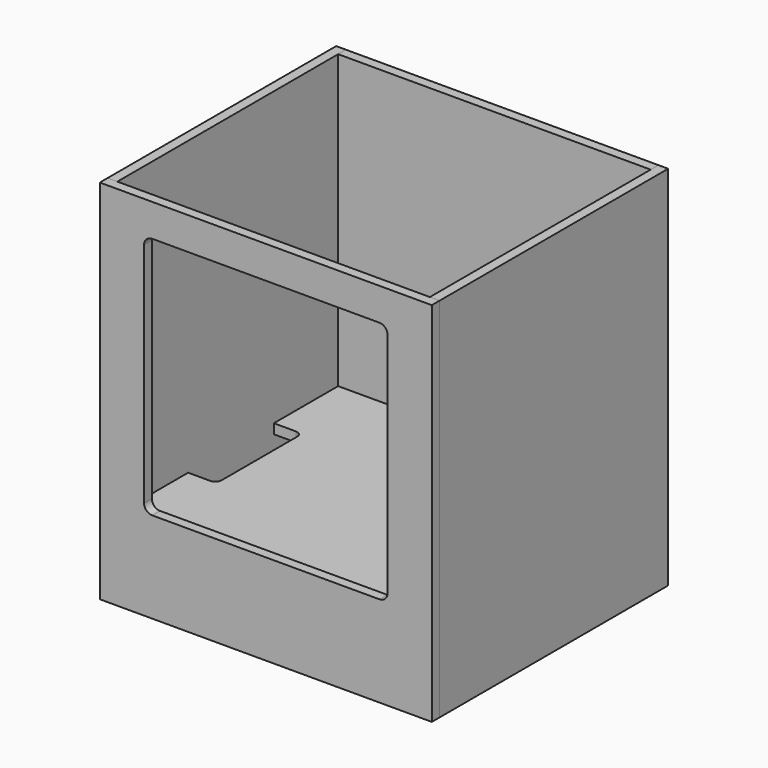
from build123d import *

# Parameters (mm, degrees)
F0_W     = 409
F0_H     = 452
F1_DEPTH = 12
F2_W     = 12
F2_H     = 452
F3_DEPTH = 352
F4_W     = 12
F4_H     = 452
F5_DEPTH = 385
F6_W     = 385
F6_H     = 12
F7_DEPTH = 340
F9_DEPTH = 92.001


with BuildPart() as f1:
    # F0 (on Front) → F1 (new body)
    with BuildSketch(Plane.XZ):
        Rectangle(F0_W, F0_H)
        with BuildLine():
            ThreePointArc((150, -104), (147.071068, -111.071068), (140, -114))
            Line((140, -114), (-140, -114))
            ThreePointArc((-140, -114), (-147.071068, -111.071068), (-150, -104))
            Line((-150, -104), (-150, 176))
            ThreePointArc((-150, 176), (-147.071068, 183.071068), (-140, 186))
            Line((-140, 186), (140, 186))
            ThreePointArc((140, 186), (147.071068, 183.071068), (150, 176))
            Line((150, 176), (150, -104))
        make_face(mode=Mode.SUBTRACT)
    extrude(amount=F1_DEPTH)


with BuildPart() as f3:
    # F2 (on face) → F3 (new body)
    with BuildSketch(Plane(origin=(0, 0, 0), x_dir=(-1, 0, 0), z_dir=(0, 1, 0))):
        with Locations((-198.5, 0)):
            Rectangle(F2_W, F2_H)
        with Locations((198.5, 0)):
            Rectangle(F2_W, F2_H)
    extrude(amount=F3_DEPTH)


with BuildPart() as f5:
    # F4 (on face) → F5 (new body, through all)
    with BuildSketch(Plane(origin=(192.5, 0, 0), x_dir=(0, -1, 0), z_dir=(-1, 0, 0))):
        with Locations((-346, 0)):
            Rectangle(F4_W, F4_H)
    extrude(amount=F5_DEPTH)


with BuildPart() as f7:
    # F6 (on face) → F7 (new body, through all)
    with BuildSketch(Plane.XZ.offset(-340)):
        with Locations((0, -140)):
            Rectangle(F6_W, F6_H)
    extrude(amount=F7_DEPTH)

    # F8 (on face) → F9 (cut, through all)
    with BuildSketch(Plane.XY.offset(-134)):
        with BuildLine():
            Line((-165.5, 241), (-192.5, 241))
            Line((-192.5, 241), (-192.5, 109))
            Line((-192.5, 109), (-165.5, 109))
            ThreePointArc((-165.5, 109), (-159.843146, 111.343146), (-157.5, 117))
            Line((-157.5, 117), (-157.5, 233))
            ThreePointArc((-157.5, 233), (-159.843146, 238.656854), (-165.5, 241))
        make_face()
        with BuildLine():
            Line((192.5, 113), (192.5, 241))
            Line((192.5, 241), (167.5, 241))
            ThreePointArc((167.5, 241), (161.843146, 238.656854), (159.5, 233))
            Line((159.5, 233), (159.5, 121))
            ThreePointArc((159.5, 121), (161.843146, 115.343146), (167.5, 113))
            Line((167.5, 113), (192.5, 113))
        make_face()
    extrude(amount=-F9_DEPTH, mode=Mode.SUBTRACT)


solid = Compound([f1.part, f3.part, f5.part, f7.part])
